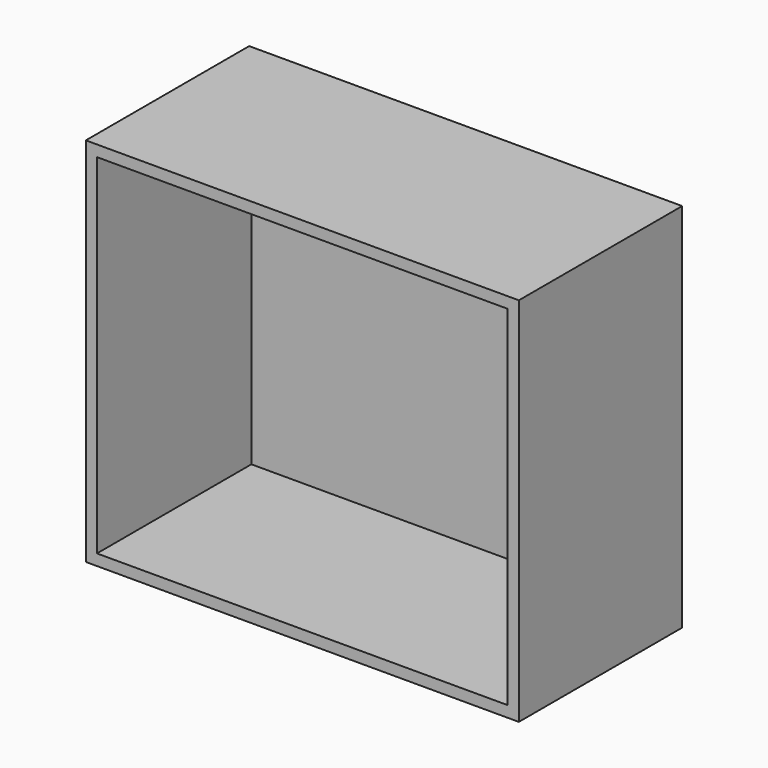
from build123d import *

# Parameters (mm, degrees)
F0_W     = 44.8449254036
F0_H     = 34.0256392956
F1_DEPTH = 330
F2_DEPTH = 900
F3_DEPTH = 600
F4_T     = -18
F6_W     = 48.9012300968
F6_H     = 42.5849854946
F7_DEPTH = 330
F8_DEPTH = 700
F9_DEPTH = 600
F10_T    = -18


with BuildPart() as f1:
    # F0 (on Front) → F1 (new body)
    with BuildSketch(Plane.XZ):
        with Locations((22.4224627018, 17.0128196478)):
            Rectangle(F0_W, F0_H)
    extrude(amount=F1_DEPTH)

    # F2 (add): a face of the model
    f2_faces = [f1.faces().sort_by_distance(p)[0] for p in [
        (0, -165, 17.0128196478),
    ]]
    extrude(f2_faces, amount=-F2_DEPTH)

    # F3 (add): a face of the model
    f3_faces = [f1.faces().sort_by_distance(p)[0] for p in [
        (450, -165, 0),
    ]]
    extrude(f3_faces, amount=-F3_DEPTH)

    # F4
    f4_openings = [f1.faces().sort_by_distance(p)[0] for p in [
        (450, -330, 300),
    ]]
    offset(amount=F4_T, openings=f4_openings)


with BuildPart() as f7:
    # F6 (on Front) → F7 (new body)
    with BuildSketch(Plane.XZ):
        with Locations((24.4506150484, 21.2924927473)):
            Rectangle(F6_W, F6_H)
    extrude(amount=F7_DEPTH)

    # F8 (add): a face of the model
    f8_faces = [f7.faces().sort_by_distance(p)[0] for p in [
        (0, -165, 21.2924927473),
    ]]
    extrude(f8_faces, amount=-F8_DEPTH)

    # F9 (add): a face of the model
    f9_faces = [f7.faces().sort_by_distance(p)[0] for p in [
        (350, -165, 0),
    ]]
    extrude(f9_faces, amount=-F9_DEPTH)

    # F10
    f10_openings = [f7.faces().sort_by_distance(p)[0] for p in [
        (350, -330, 300),
    ]]
    offset(amount=F10_T, openings=f10_openings)


solid = f7.part
